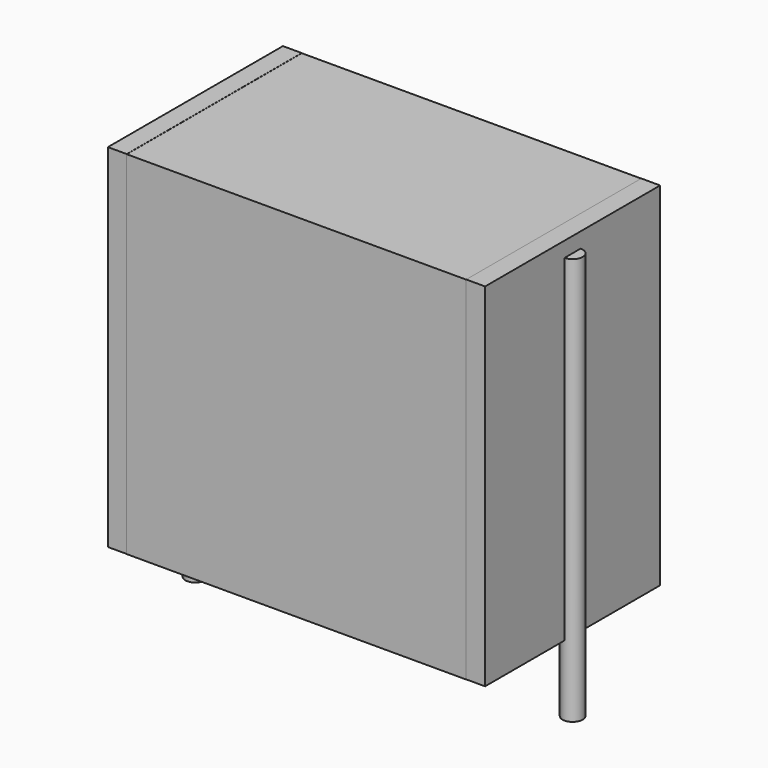
from build123d import *

# Parameters (mm, degrees)
SKETCH_W          = 13.5
SKETCH_H          = 8.7
PAD_DEPTH         = 14
SKETCH001_R       = 0.4
PAD001_DEPTH      = 13
PAD001_DEPTH_BACK = 3.2
SKETCH002_W       = 0.75
SKETCH002_H       = 8.7
PAD002_DEPTH      = 14


with BuildPart() as pad:
    # Sketch → Pad (new body)
    with BuildSketch(Plane.XY.offset(0.1)):
        with Locations((7.5, 0)):
            Rectangle(SKETCH_W, SKETCH_H)
    extrude(amount=PAD_DEPTH)


with BuildPart() as pad001:
    # Sketch001 → Pad001 (new body, two sides)
    with BuildSketch(Plane.XY.offset(0.5)) as pad001_sk:
        Circle(SKETCH001_R)
        with Locations((15, 0)):
            Circle(SKETCH001_R)
    extrude(amount=PAD001_DEPTH)
    extrude(pad001_sk.sketch, amount=-PAD001_DEPTH_BACK)


with BuildPart() as pad002:
    # Sketch002 → Pad002 (new body)
    with BuildSketch(Plane.XY.offset(0.105)):
        with Locations((0.375, 0)):
            Rectangle(SKETCH002_W, SKETCH002_H)
        with Locations((14.625, 0)):
            Rectangle(SKETCH002_W, SKETCH002_H)
    extrude(amount=PAD002_DEPTH)


solid = Compound([pad.part, pad001.part, pad002.part])
